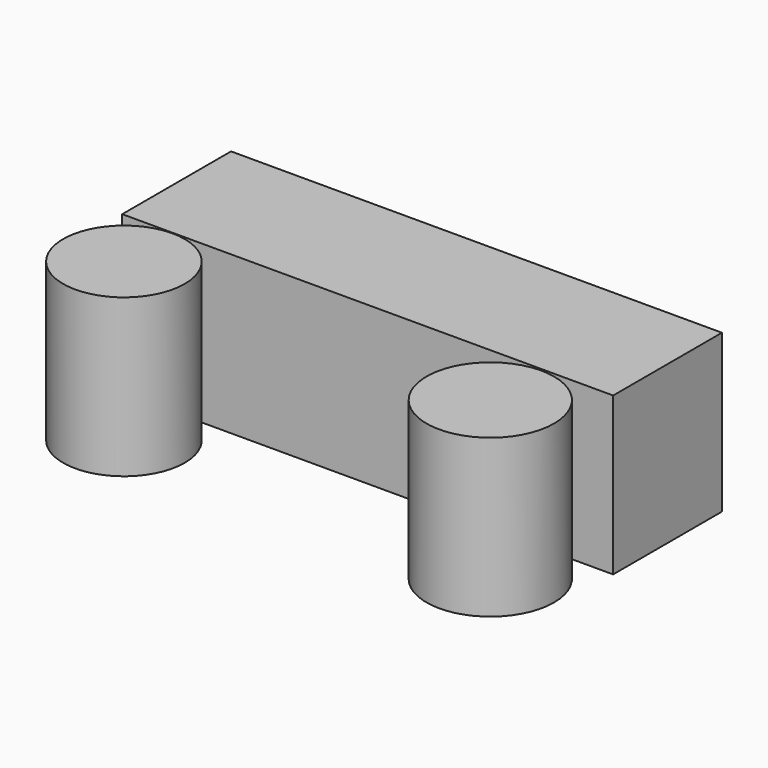
from build123d import *

# Parameters (mm, degrees)
F0_W     = 79.153366
F0_H     = 21.926042
F1_DEPTH = 25.4
F2_R     = 9.800178
F2_R_2   = 10.279655
F3_DEPTH = 25.4


with BuildPart() as f1:
    # F0 (on Top) → F1 (new body)
    with BuildSketch(Plane.XY):
        Rectangle(F0_W, F0_H)
    extrude(amount=F1_DEPTH)


with BuildPart() as f3:
    # F2 (on Top) → F3 (new body)
    with BuildSketch(Plane.XY):
        with Locations((-31.352956, -20.903919)):
            Circle(F2_R)
        with Locations((28.26906, -21.589229)):
            Circle(F2_R_2)
    extrude(amount=F3_DEPTH)


solid = Compound([f1.part, f3.part])
